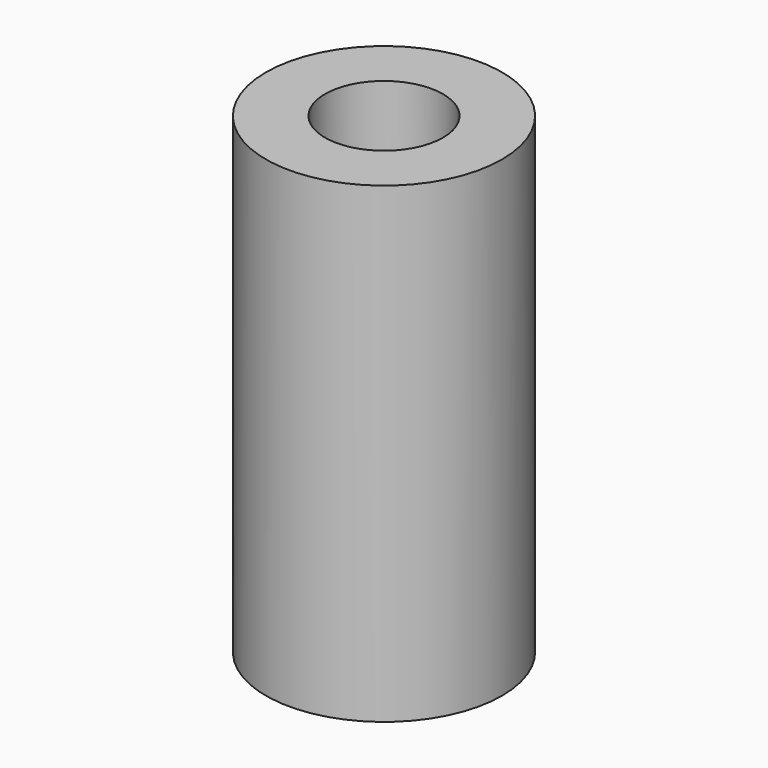
from build123d import *

# Parameters (mm, degrees)
F0_R     = 12.7
F1_DEPTH = 50.8
F2_DEPTH = 50.8
F3_R     = 6.35
F4_DEPTH = 25.4
F5_R     = 3.96875
F6_DEPTH = 25.4


with BuildPart() as f1:
    # F0 (on Top) → F1 (new body)
    with BuildSketch(Plane.XY):
        Circle(F0_R)
    extrude(amount=F1_DEPTH)

    # F0 (on Top) → F2 (join)
    with BuildSketch(Plane.XY):
        Circle(F0_R)
    extrude(amount=F2_DEPTH)

    # F3 (on face) → F4 (cut)
    with BuildSketch(Plane.XY.offset(50.8)):
        Circle(F3_R)
    extrude(amount=-F4_DEPTH, mode=Mode.SUBTRACT)

    # F5 (on face) → F6 (cut)
    with BuildSketch(Plane(origin=(0, 0, 0), x_dir=(1, 0, 0), z_dir=(0, 0, -1))):
        Circle(F5_R)
    extrude(amount=-F6_DEPTH, mode=Mode.SUBTRACT)


solid = f1.part
